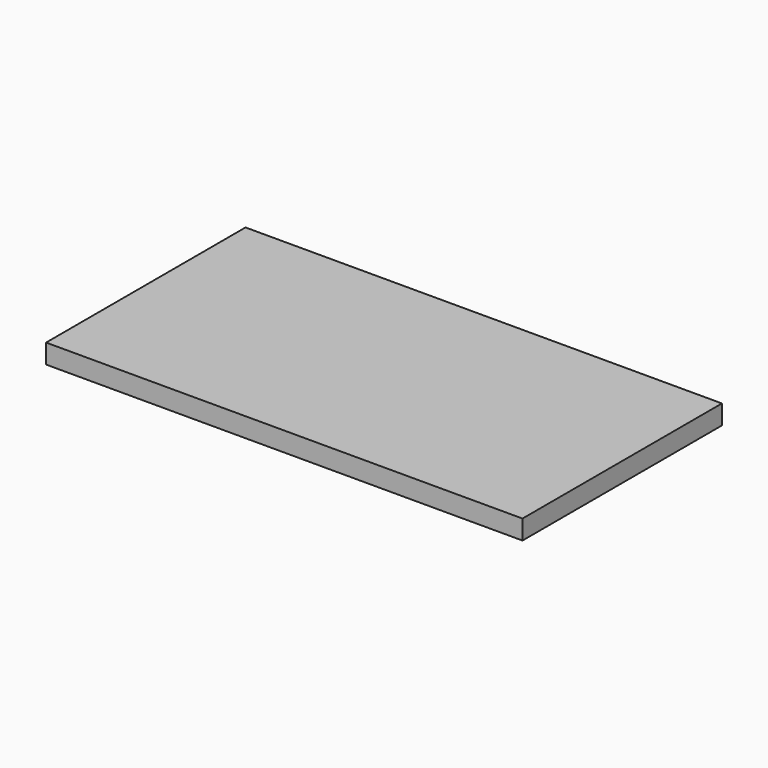
from build123d import *

# Parameters (mm, degrees)
SKETCH_W  = 450
SKETCH_H  = 35
PAD_DEPTH = 860


with BuildPart() as part:
    # Sketch → Pad (new body)
    with BuildSketch(Plane.YZ):
        with Locations((-225, 17.5)):
            Rectangle(SKETCH_W, SKETCH_H)
    extrude(amount=PAD_DEPTH)


solid = part.part
